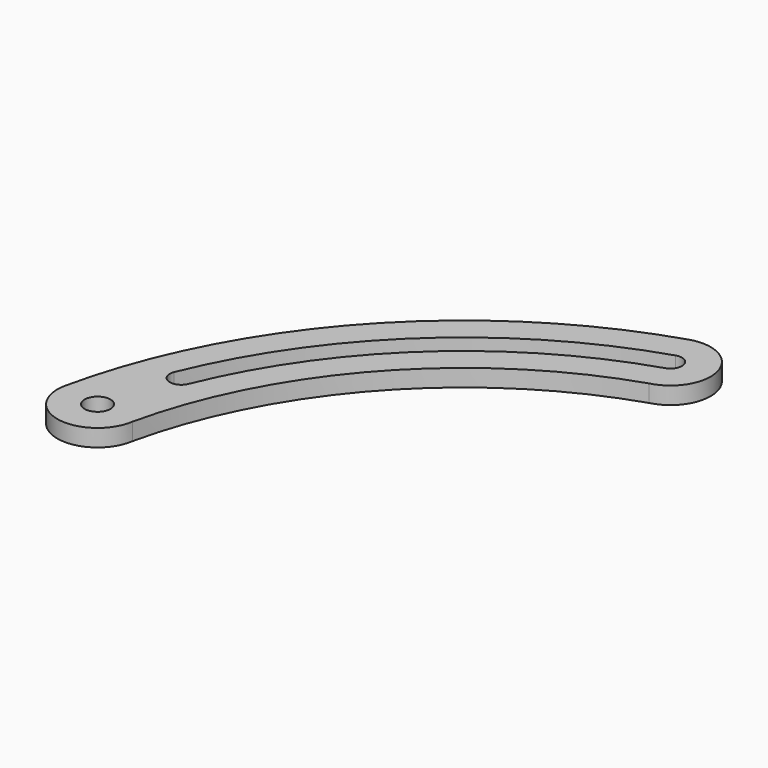
from build123d import *

# Parameters (mm, degrees)
F0_R     = 1.785938
F1_DEPTH = 2.38125


with BuildPart() as f1:
    # F0 (on Top) → F1 (new body)
    with BuildSketch(Plane.XY):
        with BuildLine():
            ThreePointArc((-55.774578, 12.462702), (-42.312769, 38.415518), (-17.777388, 54.314703))
            ThreePointArc((-17.777388, 54.314703), (-13.78005, 61.235861), (-20.826541, 65.007877))
            ThreePointArc((-20.826541, 65.007877), (-50.540252, 45.885202), (-66.711744, 14.467625))
            ThreePointArc((-66.711744, 14.467625), (-62.278496, 7.817252), (-55.774578, 12.462702))
        make_face()
        with Locations((-61.275512, 13.288682)):
            Circle(F0_R, mode=Mode.SUBTRACT)
        with BuildLine():
            ThreePointArc((-18.645082, 58.19868), (-41.494008, 44.866165), (-56.567603, 23.126429))
            ThreePointArc((-56.567603, 23.126429), (-58.637793, 22.257737), (-59.506485, 24.327927))
            ThreePointArc((-59.506485, 24.327927), (-43.649765, 47.197117), (-19.613758, 61.222302))
            ThreePointArc((-19.613758, 61.222302), (-17.617609, 60.194829), (-18.645082, 58.19868))
        make_face(mode=Mode.SUBTRACT)
    extrude(amount=F1_DEPTH)


solid = f1.part
